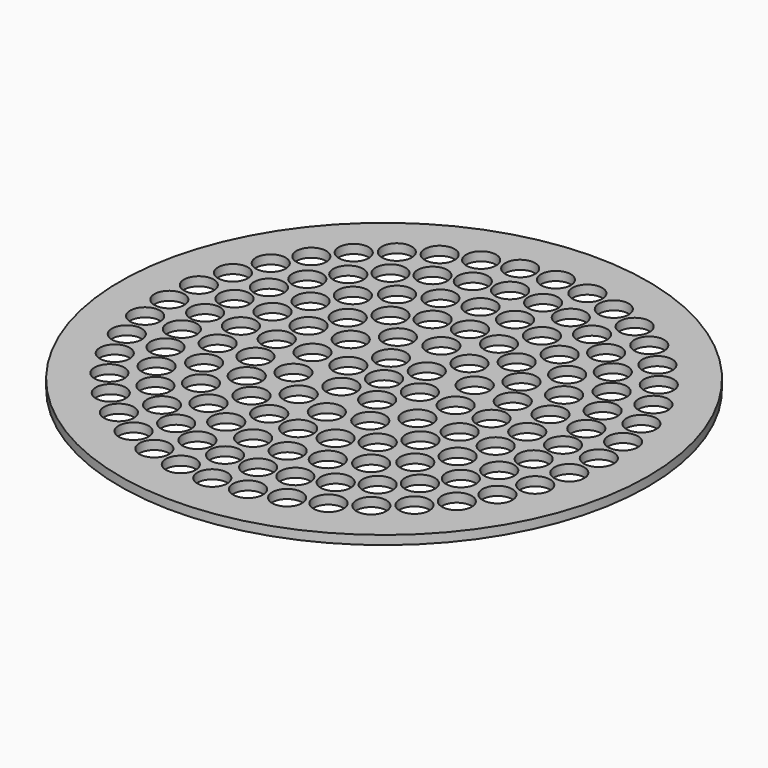
from build123d import *

# Parameters (mm, degrees)
F0_R     = 44.25
F0_R_2   = 2.5
F1_DEPTH = 1.5


with BuildPart() as f1:
    # F0 (on Top) → F1 (new body)
    with BuildSketch(Plane.XY):
        Circle(F0_R)
        with Locations((-25.455844, -25.455844)):
            Circle(F0_R_2, mode=Mode.SUBTRACT)
        with Locations((-11.124612, -34.238035)):
            Circle(F0_R_2, mode=Mode.SUBTRACT)
        with Locations((-5.631641, -35.55678)):
            Circle(F0_R_2, mode=Mode.SUBTRACT)
        with Locations((-21.160269, -29.124612)):
            Circle(F0_R_2, mode=Mode.SUBTRACT)
        with Locations((-16.343658, -32.076235)):
            Circle(F0_R_2, mode=Mode.SUBTRACT)
        with Locations((-18.079039, -23.940517)):
            Circle(F0_R_2, mode=Mode.SUBTRACT)
        with Locations((-13.372151, -26.854899)):
            Circle(F0_R_2, mode=Mode.SUBTRACT)
        with Locations((-8.20989, -28.854769)):
            Circle(F0_R_2, mode=Mode.SUBTRACT)
        with Locations((-2.768051, -29.872025)):
            Circle(F0_R_2, mode=Mode.SUBTRACT)
        with Locations((-8.510517, -22.44039)):
            Circle(F0_R_2, mode=Mode.SUBTRACT)
        with Locations((-2.89288, -23.825013)):
            Circle(F0_R_2, mode=Mode.SUBTRACT)
        with Locations((-34.238035, -11.124612)):
            Circle(F0_R_2, mode=Mode.SUBTRACT)
        with Locations((-29.124612, -21.160269)):
            Circle(F0_R_2, mode=Mode.SUBTRACT)
        with Locations((-22.170268, -20.210869)):
            Circle(F0_R_2, mode=Mode.SUBTRACT)
        with Locations((-32.076235, -16.343658)):
            Circle(F0_R_2, mode=Mode.SUBTRACT)
        with Locations((-25.506514, -15.792965)):
            Circle(F0_R_2, mode=Mode.SUBTRACT)
        with Locations((-35.55678, -5.631641)):
            Circle(F0_R_2, mode=Mode.SUBTRACT)
        with Locations((-27.974167, -10.83725)):
            Circle(F0_R_2, mode=Mode.SUBTRACT)
        with Locations((-23.302604, -5.743576)):
            Circle(F0_R_2, mode=Mode.SUBTRACT)
        with Locations((-29.489193, -5.512486)):
            Circle(F0_R_2, mode=Mode.SUBTRACT)
        with Locations((-13.633554, -19.751613)):
            Circle(F0_R_2, mode=Mode.SUBTRACT)
        with Locations((-17.964258, -15.914944)):
            Circle(F0_R_2, mode=Mode.SUBTRACT)
        with Locations((-21.250945, -11.153356)):
            Circle(F0_R_2, mode=Mode.SUBTRACT)
        with Locations((-5.562306, -17.119017)):
            Circle(F0_R_2, mode=Mode.SUBTRACT)
        with Locations((-10.580135, -14.562306)):
            Circle(F0_R_2, mode=Mode.SUBTRACT)
        with Locations((-17.119017, -5.562306)):
            Circle(F0_R_2, mode=Mode.SUBTRACT)
        with Locations((-14.562306, -10.580135)):
            Circle(F0_R_2, mode=Mode.SUBTRACT)
        with Locations((-6, -10.392305)):
            Circle(F0_R_2, mode=Mode.SUBTRACT)
        with Locations((-10.392305, -6)):
            Circle(F0_R_2, mode=Mode.SUBTRACT)
        with Locations((-3, -5.196152)):
            Circle(F0_R_2, mode=Mode.SUBTRACT)
        with Locations((0, -36)):
            Circle(F0_R_2, mode=Mode.SUBTRACT)
        with Locations((5.631641, -35.55678)):
            Circle(F0_R_2, mode=Mode.SUBTRACT)
        with Locations((11.124612, -34.238035)):
            Circle(F0_R_2, mode=Mode.SUBTRACT)
        with Locations((2.768051, -29.872025)):
            Circle(F0_R_2, mode=Mode.SUBTRACT)
        with Locations((8.20989, -28.854769)):
            Circle(F0_R_2, mode=Mode.SUBTRACT)
        with Locations((2.89288, -23.825013)):
            Circle(F0_R_2, mode=Mode.SUBTRACT)
        with Locations((8.510517, -22.44039)):
            Circle(F0_R_2, mode=Mode.SUBTRACT)
        with Locations((16.343658, -32.076235)):
            Circle(F0_R_2, mode=Mode.SUBTRACT)
        with Locations((21.160269, -29.124612)):
            Circle(F0_R_2, mode=Mode.SUBTRACT)
        with Locations((13.372151, -26.854899)):
            Circle(F0_R_2, mode=Mode.SUBTRACT)
        with Locations((18.079039, -23.940517)):
            Circle(F0_R_2, mode=Mode.SUBTRACT)
        with Locations((25.455844, -25.455844)):
            Circle(F0_R_2, mode=Mode.SUBTRACT)
        with Locations((0, -18)):
            Circle(F0_R_2, mode=Mode.SUBTRACT)
        with Locations((5.562306, -17.119017)):
            Circle(F0_R_2, mode=Mode.SUBTRACT)
        with Locations((0, -12)):
            Circle(F0_R_2, mode=Mode.SUBTRACT)
        with Locations((10.580135, -14.562306)):
            Circle(F0_R_2, mode=Mode.SUBTRACT)
        with Locations((13.633554, -19.751613)):
            Circle(F0_R_2, mode=Mode.SUBTRACT)
        with Locations((17.964258, -15.914944)):
            Circle(F0_R_2, mode=Mode.SUBTRACT)
        with Locations((21.250945, -11.153356)):
            Circle(F0_R_2, mode=Mode.SUBTRACT)
        with Locations((6, -10.392305)):
            Circle(F0_R_2, mode=Mode.SUBTRACT)
        with Locations((10.392305, -6)):
            Circle(F0_R_2, mode=Mode.SUBTRACT)
        with Locations((3, -5.196152)):
            Circle(F0_R_2, mode=Mode.SUBTRACT)
        with Locations((14.562306, -10.580135)):
            Circle(F0_R_2, mode=Mode.SUBTRACT)
        with Locations((17.119017, -5.562306)):
            Circle(F0_R_2, mode=Mode.SUBTRACT)
        with Locations((22.170268, -20.210869)):
            Circle(F0_R_2, mode=Mode.SUBTRACT)
        with Locations((29.124612, -21.160269)):
            Circle(F0_R_2, mode=Mode.SUBTRACT)
        with Locations((25.506514, -15.792965)):
            Circle(F0_R_2, mode=Mode.SUBTRACT)
        with Locations((32.076235, -16.343658)):
            Circle(F0_R_2, mode=Mode.SUBTRACT)
        with Locations((34.238035, -11.124612)):
            Circle(F0_R_2, mode=Mode.SUBTRACT)
        with Locations((23.302604, -5.743576)):
            Circle(F0_R_2, mode=Mode.SUBTRACT)
        with Locations((27.974167, -10.83725)):
            Circle(F0_R_2, mode=Mode.SUBTRACT)
        with Locations((29.489193, -5.512486)):
            Circle(F0_R_2, mode=Mode.SUBTRACT)
        with Locations((35.55678, -5.631641)):
            Circle(F0_R_2, mode=Mode.SUBTRACT)
        with Locations((-36, 0)):
            Circle(F0_R_2, mode=Mode.SUBTRACT)
        with Locations((-35.55678, 5.631641)):
            Circle(F0_R_2, mode=Mode.SUBTRACT)
        with Locations((-30, 0)):
            Circle(F0_R_2, mode=Mode.SUBTRACT)
        with Locations((-29.489193, 5.512486)):
            Circle(F0_R_2, mode=Mode.SUBTRACT)
        with Locations((-24, 0)):
            Circle(F0_R_2, mode=Mode.SUBTRACT)
        with Locations((-27.974167, 10.83725)):
            Circle(F0_R_2, mode=Mode.SUBTRACT)
        with Locations((-23.302604, 5.743576)):
            Circle(F0_R_2, mode=Mode.SUBTRACT)
        with Locations((-34.238035, 11.124612)):
            Circle(F0_R_2, mode=Mode.SUBTRACT)
        with Locations((-32.076235, 16.343658)):
            Circle(F0_R_2, mode=Mode.SUBTRACT)
        with Locations((-25.506514, 15.792965)):
            Circle(F0_R_2, mode=Mode.SUBTRACT)
        with Locations((-29.124612, 21.160269)):
            Circle(F0_R_2, mode=Mode.SUBTRACT)
        with Locations((-22.170268, 20.210869)):
            Circle(F0_R_2, mode=Mode.SUBTRACT)
        with Locations((-18, 0)):
            Circle(F0_R_2, mode=Mode.SUBTRACT)
        with Locations((-12, 0)):
            Circle(F0_R_2, mode=Mode.SUBTRACT)
        with Locations((-17.119017, 5.562306)):
            Circle(F0_R_2, mode=Mode.SUBTRACT)
        with Locations((-14.562306, 10.580135)):
            Circle(F0_R_2, mode=Mode.SUBTRACT)
        with Locations((-6, 0)):
            Circle(F0_R_2, mode=Mode.SUBTRACT)
        with Locations((-3, 5.196152)):
            Circle(F0_R_2, mode=Mode.SUBTRACT)
        with Locations((-10.392305, 6)):
            Circle(F0_R_2, mode=Mode.SUBTRACT)
        with Locations((-6, 10.392305)):
            Circle(F0_R_2, mode=Mode.SUBTRACT)
        with Locations((-21.250945, 11.153356)):
            Circle(F0_R_2, mode=Mode.SUBTRACT)
        with Locations((-17.964258, 15.914944)):
            Circle(F0_R_2, mode=Mode.SUBTRACT)
        with Locations((-13.633554, 19.751613)):
            Circle(F0_R_2, mode=Mode.SUBTRACT)
        with Locations((-10.580135, 14.562306)):
            Circle(F0_R_2, mode=Mode.SUBTRACT)
        with Locations((-5.562306, 17.119017)):
            Circle(F0_R_2, mode=Mode.SUBTRACT)
        with Locations((-25.455844, 25.455844)):
            Circle(F0_R_2, mode=Mode.SUBTRACT)
        with Locations((-18.079039, 23.940517)):
            Circle(F0_R_2, mode=Mode.SUBTRACT)
        with Locations((-13.372151, 26.854899)):
            Circle(F0_R_2, mode=Mode.SUBTRACT)
        with Locations((-21.160269, 29.124612)):
            Circle(F0_R_2, mode=Mode.SUBTRACT)
        with Locations((-16.343658, 32.076235)):
            Circle(F0_R_2, mode=Mode.SUBTRACT)
        with Locations((-8.510517, 22.44039)):
            Circle(F0_R_2, mode=Mode.SUBTRACT)
        with Locations((-2.89288, 23.825013)):
            Circle(F0_R_2, mode=Mode.SUBTRACT)
        with Locations((-8.20989, 28.854769)):
            Circle(F0_R_2, mode=Mode.SUBTRACT)
        with Locations((-2.768051, 29.872025)):
            Circle(F0_R_2, mode=Mode.SUBTRACT)
        with Locations((-11.124612, 34.238035)):
            Circle(F0_R_2, mode=Mode.SUBTRACT)
        with Locations((-5.631641, 35.55678)):
            Circle(F0_R_2, mode=Mode.SUBTRACT)
        Circle(F0_R_2, mode=Mode.SUBTRACT)
        with Locations((3, 5.196152)):
            Circle(F0_R_2, mode=Mode.SUBTRACT)
        with Locations((6, 0)):
            Circle(F0_R_2, mode=Mode.SUBTRACT)
        with Locations((10.392305, 6)):
            Circle(F0_R_2, mode=Mode.SUBTRACT)
        with Locations((6, 10.392305)):
            Circle(F0_R_2, mode=Mode.SUBTRACT)
        with Locations((12, 0)):
            Circle(F0_R_2, mode=Mode.SUBTRACT)
        with Locations((18, 0)):
            Circle(F0_R_2, mode=Mode.SUBTRACT)
        with Locations((14.562306, 10.580135)):
            Circle(F0_R_2, mode=Mode.SUBTRACT)
        with Locations((17.119017, 5.562306)):
            Circle(F0_R_2, mode=Mode.SUBTRACT)
        with Locations((0, 12)):
            Circle(F0_R_2, mode=Mode.SUBTRACT)
        with Locations((10.580135, 14.562306)):
            Circle(F0_R_2, mode=Mode.SUBTRACT)
        with Locations((0, 18)):
            Circle(F0_R_2, mode=Mode.SUBTRACT)
        with Locations((5.562306, 17.119017)):
            Circle(F0_R_2, mode=Mode.SUBTRACT)
        with Locations((21.250945, 11.153356)):
            Circle(F0_R_2, mode=Mode.SUBTRACT)
        with Locations((17.964258, 15.914944)):
            Circle(F0_R_2, mode=Mode.SUBTRACT)
        with Locations((13.633554, 19.751613)):
            Circle(F0_R_2, mode=Mode.SUBTRACT)
        with Locations((24, 0)):
            Circle(F0_R_2, mode=Mode.SUBTRACT)
        with Locations((30, 0)):
            Circle(F0_R_2, mode=Mode.SUBTRACT)
        with Locations((29.489193, 5.512486)):
            Circle(F0_R_2, mode=Mode.SUBTRACT)
        with Locations((23.302604, 5.743576)):
            Circle(F0_R_2, mode=Mode.SUBTRACT)
        with Locations((27.974167, 10.83725)):
            Circle(F0_R_2, mode=Mode.SUBTRACT)
        with Locations((36, 0)):
            Circle(F0_R_2, mode=Mode.SUBTRACT)
        with Locations((35.55678, 5.631641)):
            Circle(F0_R_2, mode=Mode.SUBTRACT)
        with Locations((25.506514, 15.792965)):
            Circle(F0_R_2, mode=Mode.SUBTRACT)
        with Locations((32.076235, 16.343658)):
            Circle(F0_R_2, mode=Mode.SUBTRACT)
        with Locations((22.170268, 20.210869)):
            Circle(F0_R_2, mode=Mode.SUBTRACT)
        with Locations((29.124612, 21.160269)):
            Circle(F0_R_2, mode=Mode.SUBTRACT)
        with Locations((34.238035, 11.124612)):
            Circle(F0_R_2, mode=Mode.SUBTRACT)
        with Locations((2.89288, 23.825013)):
            Circle(F0_R_2, mode=Mode.SUBTRACT)
        with Locations((8.510517, 22.44039)):
            Circle(F0_R_2, mode=Mode.SUBTRACT)
        with Locations((2.768051, 29.872025)):
            Circle(F0_R_2, mode=Mode.SUBTRACT)
        with Locations((8.20989, 28.854769)):
            Circle(F0_R_2, mode=Mode.SUBTRACT)
        with Locations((13.372151, 26.854899)):
            Circle(F0_R_2, mode=Mode.SUBTRACT)
        with Locations((18.079039, 23.940517)):
            Circle(F0_R_2, mode=Mode.SUBTRACT)
        with Locations((16.343658, 32.076235)):
            Circle(F0_R_2, mode=Mode.SUBTRACT)
        with Locations((21.160269, 29.124612)):
            Circle(F0_R_2, mode=Mode.SUBTRACT)
        with Locations((0, 36)):
            Circle(F0_R_2, mode=Mode.SUBTRACT)
        with Locations((5.631641, 35.55678)):
            Circle(F0_R_2, mode=Mode.SUBTRACT)
        with Locations((11.124612, 34.238035)):
            Circle(F0_R_2, mode=Mode.SUBTRACT)
        with Locations((25.455844, 25.455844)):
            Circle(F0_R_2, mode=Mode.SUBTRACT)
    extrude(amount=F1_DEPTH)


solid = f1.part
